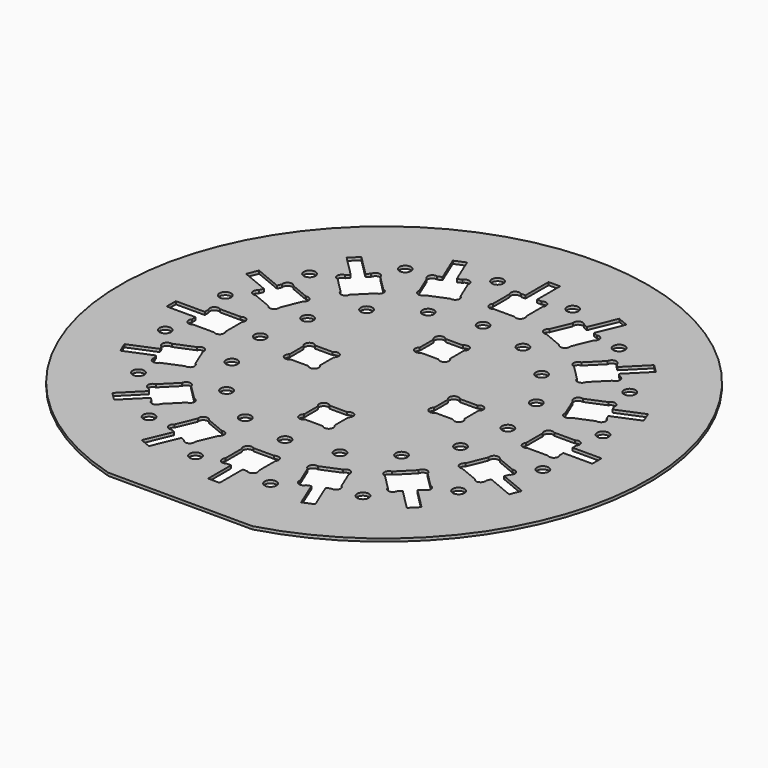
from build123d import *

# Parameters (mm, degrees)
F0_R     = 2
F1_DEPTH = 1


with BuildPart() as f1:
    # F0 (on Top) → F1 (new body)
    with BuildSketch(Plane.XY):
        with BuildLine():
            Line((-25.219298, -87.728294), (24.780546, -87.853236))
            ThreePointArc((24.780546, -87.853236), (0.228098, 91.280965), (-25.219298, -87.728294))
        make_face()
        with Locations((-36.993475, -55.364648)):
            Circle(F0_R, mode=Mode.SUBTRACT)
        with BuildLine():
            ThreePointArc((-42.451708, -34.249269), (-40.875761, -32.852944), (-39.299814, -34.249269))
            Line((-39.299814, -34.249269), (-34.249269, -39.299814))
            ThreePointArc((-34.249269, -39.299814), (-32.852944, -40.875761), (-34.249269, -42.451708))
            Line((-34.249269, -42.451708), (-39.299814, -47.502253))
            ThreePointArc((-39.299814, -47.502253), (-40.875761, -48.898578), (-42.451708, -47.502253))
            Line((-42.451708, -47.502253), (-43.562767, -46.391194))
            Line((-43.562767, -46.391194), (-50.633835, -53.462262))
            Line((-50.633835, -53.462262), (-53.462262, -50.633835))
            Line((-53.462262, -50.633835), (-46.391194, -43.562767))
            Line((-46.391194, -43.562767), (-47.502253, -42.451708))
            ThreePointArc((-47.502253, -42.451708), (-48.898578, -40.875761), (-47.502253, -39.299814))
            Line((-47.502253, -39.299814), (-42.451708, -34.249269))
        make_face(mode=Mode.SUBTRACT)
        with Locations((-12.990381, -65.307056)):
            Circle(F0_R, mode=Mode.SUBTRACT)
        with BuildLine():
            ThreePointArc((-26.113636, -47.887764), (-25.192002, -45.994639), (-23.201666, -46.681587))
            Line((-23.201666, -46.681587), (-16.602811, -49.414922))
            ThreePointArc((-16.602811, -49.414922), (-14.709686, -50.336556), (-15.396634, -52.326892))
            Line((-15.396634, -52.326892), (-18.129969, -58.925747))
            ThreePointArc((-18.129969, -58.925747), (-19.051603, -60.818872), (-21.041939, -60.131925))
            Line((-21.041939, -60.131925), (-22.493607, -59.530624))
            Line((-22.493607, -59.530624), (-26.320442, -68.769419))
            Line((-26.320442, -68.769419), (-30.01596, -67.238685))
            Line((-30.01596, -67.238685), (-26.189125, -57.99989))
            Line((-26.189125, -57.99989), (-27.640794, -57.398589))
            ThreePointArc((-27.640794, -57.398589), (-29.533919, -56.476955), (-28.846971, -54.486619))
            Line((-28.846971, -54.486619), (-26.113636, -47.887764))
        make_face(mode=Mode.SUBTRACT)
        with Locations((-55.364648, -36.993475)):
            Circle(F0_R, mode=Mode.SUBTRACT)
        with BuildLine():
            ThreePointArc((-52.326892, -15.396634), (-50.336556, -14.709686), (-49.414922, -16.602811))
            Line((-49.414922, -16.602811), (-46.681587, -23.201666))
            ThreePointArc((-46.681587, -23.201666), (-45.994639, -25.192002), (-47.887764, -26.113636))
            Line((-47.887764, -26.113636), (-54.486619, -28.846971))
            ThreePointArc((-54.486619, -28.846971), (-56.476955, -29.533919), (-57.398589, -27.640794))
            Line((-57.398589, -27.640794), (-57.99989, -26.189125))
            Line((-57.99989, -26.189125), (-67.238685, -30.01596))
            Line((-67.238685, -30.01596), (-68.769419, -26.320442))
            Line((-68.769419, -26.320442), (-59.530624, -22.493607))
            Line((-59.530624, -22.493607), (-60.131925, -21.041939))
            ThreePointArc((-60.131925, -21.041939), (-60.818872, -19.051603), (-58.925747, -18.129969))
            Line((-58.925747, -18.129969), (-52.326892, -15.396634))
        make_face(mode=Mode.SUBTRACT)
        with Locations((-65.307056, -12.990381)):
            Circle(F0_R, mode=Mode.SUBTRACT)
        with BuildLine():
            ThreePointArc((-54.235781, 5.8), (-52.134067, 5.672988), (-52.007056, 3.571275))
            Line((-52.007056, 3.571275), (-52.007056, -3.571275))
            ThreePointArc((-52.007056, -3.571275), (-52.134067, -5.672988), (-54.235781, -5.8))
            Line((-54.235781, -5.8), (-61.37833, -5.8))
            ThreePointArc((-61.37833, -5.8), (-63.480044, -5.672988), (-63.607056, -3.571275))
            Line((-63.607056, -3.571275), (-63.607056, -2))
            Line((-63.607056, -2), (-73.607056, -2))
            Line((-73.607056, -2), (-73.607056, 2))
            Line((-73.607056, 2), (-63.607056, 2))
            Line((-63.607056, 2), (-63.607056, 3.571275))
            ThreePointArc((-63.607056, 3.571275), (-63.480044, 5.672988), (-61.37833, 5.8))
            Line((-61.37833, 5.8), (-54.235781, 5.8))
        make_face(mode=Mode.SUBTRACT)
        with Locations((-30.269159, -30.269159)):
            Circle(F0_R, mode=Mode.SUBTRACT)
        with Locations((-16.381551, -39.548563)):
            Circle(F0_R, mode=Mode.SUBTRACT)
        with BuildLine():
            ThreePointArc((3.02086, -19.75), (5.391421, -19.608579), (5.25, -21.97914))
            Line((5.25, -21.97914), (5.25, -28.02086))
            ThreePointArc((5.25, -28.02086), (5.391421, -30.391421), (3.02086, -30.25))
            Line((3.02086, -30.25), (2.000019, -30.25))
            Line((2.000019, -30.25), (-2, -30.25))
            Line((-2, -30.25), (-3.02086, -30.25))
            ThreePointArc((-3.02086, -30.25), (-5.391421, -30.391421), (-5.25, -28.02086))
            Line((-5.25, -28.02086), (-5.25, -21.97914))
            ThreePointArc((-5.25, -21.97914), (-5.391421, -19.608579), (-3.02086, -19.75))
            Line((-3.02086, -19.75), (3.02086, -19.75))
        make_face(mode=Mode.SUBTRACT)
        with Locations((-39.548563, -16.381551)):
            Circle(F0_R, mode=Mode.SUBTRACT)
        with Locations((-42.807056, 0)):
            Circle(F0_R, mode=Mode.SUBTRACT)
        with BuildLine():
            ThreePointArc((-19.75, -3.02086), (-19.608579, -5.391421), (-21.97914, -5.25))
            Line((-21.97914, -5.25), (-28.02086, -5.25))
            ThreePointArc((-28.02086, -5.25), (-30.391421, -5.391421), (-30.25, -3.02086))
            Line((-30.25, -3.02086), (-30.25, -2.000019))
            Line((-30.25, -2.000019), (-30.25, 2))
            Line((-30.25, 2), (-30.25, 3.02086))
            ThreePointArc((-30.25, 3.02086), (-30.391421, 5.391421), (-28.02086, 5.25))
            Line((-28.02086, 5.25), (-21.97914, 5.25))
            ThreePointArc((-21.97914, 5.25), (-19.608579, 5.391421), (-19.75, 3.02086))
            Line((-19.75, 3.02086), (-19.75, -3.02086))
        make_face(mode=Mode.SUBTRACT)
        with BuildLine():
            ThreePointArc((-5.8, -54.235781), (-5.672988, -52.134067), (-3.571275, -52.007056))
            Line((-3.571275, -52.007056), (3.571275, -52.007056))
            ThreePointArc((3.571275, -52.007056), (5.672988, -52.134067), (5.8, -54.235781))
            Line((5.8, -54.235781), (5.8, -61.37833))
            ThreePointArc((5.8, -61.37833), (5.672988, -63.480044), (3.571275, -63.607056))
            Line((3.571275, -63.607056), (2, -63.607056))
            Line((2, -63.607056), (2, -73.607056))
            Line((2, -73.607056), (-2, -73.607056))
            Line((-2, -73.607056), (-2, -63.607056))
            Line((-2, -63.607056), (-3.571275, -63.607056))
            ThreePointArc((-3.571275, -63.607056), (-5.672988, -63.480044), (-5.8, -61.37833))
            Line((-5.8, -61.37833), (-5.8, -54.235781))
        make_face(mode=Mode.SUBTRACT)
        with Locations((12.990381, -65.307056)):
            Circle(F0_R, mode=Mode.SUBTRACT)
        with BuildLine():
            ThreePointArc((15.396634, -52.326892), (14.709686, -50.336556), (16.602811, -49.414922))
            Line((16.602811, -49.414922), (23.201666, -46.681587))
            ThreePointArc((23.201666, -46.681587), (25.192002, -45.994639), (26.113636, -47.887764))
            Line((26.113636, -47.887764), (28.846971, -54.486619))
            ThreePointArc((28.846971, -54.486619), (29.533919, -56.476955), (27.640794, -57.398589))
            Line((27.640794, -57.398589), (26.189125, -57.99989))
            Line((26.189125, -57.99989), (30.01596, -67.238685))
            Line((30.01596, -67.238685), (26.320442, -68.769419))
            Line((26.320442, -68.769419), (22.493607, -59.530624))
            Line((22.493607, -59.530624), (21.041939, -60.131925))
            ThreePointArc((21.041939, -60.131925), (19.051603, -60.818872), (18.129969, -58.925747))
            Line((18.129969, -58.925747), (15.396634, -52.326892))
        make_face(mode=Mode.SUBTRACT)
        with Locations((36.993475, -55.364648)):
            Circle(F0_R, mode=Mode.SUBTRACT)
        with BuildLine():
            ThreePointArc((34.249269, -42.451708), (32.852944, -40.875761), (34.249269, -39.299814))
            Line((34.249269, -39.299814), (39.299814, -34.249269))
            ThreePointArc((39.299814, -34.249269), (40.875761, -32.852944), (42.451708, -34.249269))
            Line((42.451708, -34.249269), (47.502253, -39.299814))
            ThreePointArc((47.502253, -39.299814), (48.898578, -40.875761), (47.502253, -42.451708))
            Line((47.502253, -42.451708), (46.391194, -43.562767))
            Line((46.391194, -43.562767), (53.462262, -50.633835))
            Line((53.462262, -50.633835), (50.633835, -53.462262))
            Line((50.633835, -53.462262), (43.562767, -46.391194))
            Line((43.562767, -46.391194), (42.451708, -47.502253))
            ThreePointArc((42.451708, -47.502253), (40.875761, -48.898578), (39.299814, -47.502253))
            Line((39.299814, -47.502253), (34.249269, -42.451708))
        make_face(mode=Mode.SUBTRACT)
        with Locations((0, -42.807056)):
            Circle(F0_R, mode=Mode.SUBTRACT)
        with Locations((16.381551, -39.548563)):
            Circle(F0_R, mode=Mode.SUBTRACT)
        with Locations((30.269159, -30.269159)):
            Circle(F0_R, mode=Mode.SUBTRACT)
        with Locations((39.548563, -16.381551)):
            Circle(F0_R, mode=Mode.SUBTRACT)
        with BuildLine():
            ThreePointArc((19.75, 3.02086), (19.608579, 5.391421), (21.97914, 5.25))
            Line((21.97914, 5.25), (28.02086, 5.25))
            ThreePointArc((28.02086, 5.25), (30.391421, 5.391421), (30.25, 3.02086))
            Line((30.25, 3.02086), (30.25, 2.000019))
            Line((30.25, 2.000019), (30.25, -2))
            Line((30.25, -2), (30.25, -3.02086))
            ThreePointArc((30.25, -3.02086), (30.391421, -5.391421), (28.02086, -5.25))
            Line((28.02086, -5.25), (21.97914, -5.25))
            ThreePointArc((21.97914, -5.25), (19.608579, -5.391421), (19.75, -3.02086))
            Line((19.75, -3.02086), (19.75, 3.02086))
        make_face(mode=Mode.SUBTRACT)
        with Locations((42.807056, 0)):
            Circle(F0_R, mode=Mode.SUBTRACT)
        with Locations((55.364648, -36.993475)):
            Circle(F0_R, mode=Mode.SUBTRACT)
        with BuildLine():
            ThreePointArc((47.887764, -26.113636), (45.994639, -25.192002), (46.681587, -23.201666))
            Line((46.681587, -23.201666), (49.414922, -16.602811))
            ThreePointArc((49.414922, -16.602811), (50.336556, -14.709686), (52.326892, -15.396634))
            Line((52.326892, -15.396634), (58.925747, -18.129969))
            ThreePointArc((58.925747, -18.129969), (60.818872, -19.051603), (60.131925, -21.041939))
            Line((60.131925, -21.041939), (59.530624, -22.493607))
            Line((59.530624, -22.493607), (68.769419, -26.320442))
            Line((68.769419, -26.320442), (67.238685, -30.01596))
            Line((67.238685, -30.01596), (57.99989, -26.189125))
            Line((57.99989, -26.189125), (57.398589, -27.640794))
            ThreePointArc((57.398589, -27.640794), (56.476955, -29.533919), (54.486619, -28.846971))
            Line((54.486619, -28.846971), (47.887764, -26.113636))
        make_face(mode=Mode.SUBTRACT)
        with Locations((65.307056, -12.990381)):
            Circle(F0_R, mode=Mode.SUBTRACT)
        with BuildLine():
            ThreePointArc((54.235781, -5.8), (52.134067, -5.672988), (52.007056, -3.571275))
            Line((52.007056, -3.571275), (52.007056, 3.571275))
            ThreePointArc((52.007056, 3.571275), (52.134067, 5.672988), (54.235781, 5.8))
            Line((54.235781, 5.8), (61.37833, 5.8))
            ThreePointArc((61.37833, 5.8), (63.480044, 5.672988), (63.607056, 3.571275))
            Line((63.607056, 3.571275), (63.607056, 2))
            Line((63.607056, 2), (73.607056, 2))
            Line((73.607056, 2), (73.607056, -2))
            Line((73.607056, -2), (63.607056, -2))
            Line((63.607056, -2), (63.607056, -3.571275))
            ThreePointArc((63.607056, -3.571275), (63.480044, -5.672988), (61.37833, -5.8))
            Line((61.37833, -5.8), (54.235781, -5.8))
        make_face(mode=Mode.SUBTRACT)
        with Locations((-65.307056, 12.990381)):
            Circle(F0_R, mode=Mode.SUBTRACT)
        with BuildLine():
            ThreePointArc((-47.887764, 26.113636), (-45.994639, 25.192002), (-46.681587, 23.201666))
            Line((-46.681587, 23.201666), (-49.414922, 16.602811))
            ThreePointArc((-49.414922, 16.602811), (-50.336556, 14.709686), (-52.326892, 15.396634))
            Line((-52.326892, 15.396634), (-58.925747, 18.129969))
            ThreePointArc((-58.925747, 18.129969), (-60.818872, 19.051603), (-60.131925, 21.041939))
            Line((-60.131925, 21.041939), (-59.530624, 22.493607))
            Line((-59.530624, 22.493607), (-68.769419, 26.320442))
            Line((-68.769419, 26.320442), (-67.238685, 30.01596))
            Line((-67.238685, 30.01596), (-57.99989, 26.189125))
            Line((-57.99989, 26.189125), (-57.398589, 27.640794))
            ThreePointArc((-57.398589, 27.640794), (-56.476955, 29.533919), (-54.486619, 28.846971))
            Line((-54.486619, 28.846971), (-47.887764, 26.113636))
        make_face(mode=Mode.SUBTRACT)
        with Locations((-55.364648, 36.993475)):
            Circle(F0_R, mode=Mode.SUBTRACT)
        with Locations((-39.548563, 16.381551)):
            Circle(F0_R, mode=Mode.SUBTRACT)
        with Locations((-30.269159, 30.269159)):
            Circle(F0_R, mode=Mode.SUBTRACT)
        with BuildLine():
            ThreePointArc((-39.299814, 34.249269), (-40.875761, 32.852944), (-42.451708, 34.249269))
            Line((-42.451708, 34.249269), (-47.502253, 39.299814))
            ThreePointArc((-47.502253, 39.299814), (-48.898578, 40.875761), (-47.502253, 42.451708))
            Line((-47.502253, 42.451708), (-46.391194, 43.562767))
            Line((-46.391194, 43.562767), (-53.462262, 50.633835))
            Line((-53.462262, 50.633835), (-50.633835, 53.462262))
            Line((-50.633835, 53.462262), (-43.562767, 46.391194))
            Line((-43.562767, 46.391194), (-42.451708, 47.502253))
            ThreePointArc((-42.451708, 47.502253), (-40.875761, 48.898578), (-39.299814, 47.502253))
            Line((-39.299814, 47.502253), (-34.249269, 42.451708))
            ThreePointArc((-34.249269, 42.451708), (-32.852944, 40.875761), (-34.249269, 39.299814))
            Line((-34.249269, 39.299814), (-39.299814, 34.249269))
        make_face(mode=Mode.SUBTRACT)
        with BuildLine():
            ThreePointArc((3.02086, 30.25), (5.391421, 30.391421), (5.25, 28.02086))
            Line((5.25, 28.02086), (5.25, 21.97914))
            ThreePointArc((5.25, 21.97914), (5.391421, 19.608579), (3.02086, 19.75))
            Line((3.02086, 19.75), (-3.02086, 19.75))
            ThreePointArc((-3.02086, 19.75), (-5.391421, 19.608579), (-5.25, 21.97914))
            Line((-5.25, 21.97914), (-5.25, 28.02086))
            ThreePointArc((-5.25, 28.02086), (-5.391421, 30.391421), (-3.02086, 30.25))
            Line((-3.02086, 30.25), (-2.000019, 30.25))
            Line((-2.000019, 30.25), (2, 30.25))
            Line((2, 30.25), (3.02086, 30.25))
        make_face(mode=Mode.SUBTRACT)
        with Locations((-16.381551, 39.548563)):
            Circle(F0_R, mode=Mode.SUBTRACT)
        with Locations((-36.993475, 55.364648)):
            Circle(F0_R, mode=Mode.SUBTRACT)
        with BuildLine():
            ThreePointArc((-23.201666, 46.681587), (-25.192002, 45.994639), (-26.113636, 47.887764))
            Line((-26.113636, 47.887764), (-28.846971, 54.486619))
            ThreePointArc((-28.846971, 54.486619), (-29.533919, 56.476955), (-27.640794, 57.398589))
            Line((-27.640794, 57.398589), (-26.189125, 57.99989))
            Line((-26.189125, 57.99989), (-30.01596, 67.238685))
            Line((-30.01596, 67.238685), (-26.320442, 68.769419))
            Line((-26.320442, 68.769419), (-22.493607, 59.530624))
            Line((-22.493607, 59.530624), (-21.041939, 60.131925))
            ThreePointArc((-21.041939, 60.131925), (-19.051603, 60.818872), (-18.129969, 58.925747))
            Line((-18.129969, 58.925747), (-15.396634, 52.326892))
            ThreePointArc((-15.396634, 52.326892), (-14.709686, 50.336556), (-16.602811, 49.414922))
            Line((-16.602811, 49.414922), (-23.201666, 46.681587))
        make_face(mode=Mode.SUBTRACT)
        with Locations((-12.990381, 65.307056)):
            Circle(F0_R, mode=Mode.SUBTRACT)
        with Locations((39.548563, 16.381551)):
            Circle(F0_R, mode=Mode.SUBTRACT)
        with Locations((0, 42.807056)):
            Circle(F0_R, mode=Mode.SUBTRACT)
        with Locations((16.381551, 39.548563)):
            Circle(F0_R, mode=Mode.SUBTRACT)
        with Locations((30.269159, 30.269159)):
            Circle(F0_R, mode=Mode.SUBTRACT)
        with BuildLine():
            ThreePointArc((42.451708, 34.249269), (40.875761, 32.852944), (39.299814, 34.249269))
            Line((39.299814, 34.249269), (34.249269, 39.299814))
            ThreePointArc((34.249269, 39.299814), (32.852944, 40.875761), (34.249269, 42.451708))
            Line((34.249269, 42.451708), (39.299814, 47.502253))
            ThreePointArc((39.299814, 47.502253), (40.875761, 48.898578), (42.451708, 47.502253))
            Line((42.451708, 47.502253), (43.562767, 46.391194))
            Line((43.562767, 46.391194), (50.633835, 53.462262))
            Line((50.633835, 53.462262), (53.462262, 50.633835))
            Line((53.462262, 50.633835), (46.391194, 43.562767))
            Line((46.391194, 43.562767), (47.502253, 42.451708))
            ThreePointArc((47.502253, 42.451708), (48.898578, 40.875761), (47.502253, 39.299814))
            Line((47.502253, 39.299814), (42.451708, 34.249269))
        make_face(mode=Mode.SUBTRACT)
        with Locations((65.307056, 12.990381)):
            Circle(F0_R, mode=Mode.SUBTRACT)
        with BuildLine():
            ThreePointArc((52.326892, 15.396634), (50.336556, 14.709686), (49.414922, 16.602811))
            Line((49.414922, 16.602811), (46.681587, 23.201666))
            ThreePointArc((46.681587, 23.201666), (45.994639, 25.192002), (47.887764, 26.113636))
            Line((47.887764, 26.113636), (54.486619, 28.846971))
            ThreePointArc((54.486619, 28.846971), (56.476955, 29.533919), (57.398589, 27.640794))
            Line((57.398589, 27.640794), (57.99989, 26.189125))
            Line((57.99989, 26.189125), (67.238685, 30.01596))
            Line((67.238685, 30.01596), (68.769419, 26.320442))
            Line((68.769419, 26.320442), (59.530624, 22.493607))
            Line((59.530624, 22.493607), (60.131925, 21.041939))
            ThreePointArc((60.131925, 21.041939), (60.818872, 19.051603), (58.925747, 18.129969))
            Line((58.925747, 18.129969), (52.326892, 15.396634))
        make_face(mode=Mode.SUBTRACT)
        with Locations((55.364648, 36.993475)):
            Circle(F0_R, mode=Mode.SUBTRACT)
        with BuildLine():
            ThreePointArc((26.113636, 47.887764), (25.192002, 45.994639), (23.201666, 46.681587))
            Line((23.201666, 46.681587), (16.602811, 49.414922))
            ThreePointArc((16.602811, 49.414922), (14.709686, 50.336556), (15.396634, 52.326892))
            Line((15.396634, 52.326892), (18.129969, 58.925747))
            ThreePointArc((18.129969, 58.925747), (19.051603, 60.818872), (21.041939, 60.131925))
            Line((21.041939, 60.131925), (22.493607, 59.530624))
            Line((22.493607, 59.530624), (26.320442, 68.769419))
            Line((26.320442, 68.769419), (30.01596, 67.238685))
            Line((30.01596, 67.238685), (26.189125, 57.99989))
            Line((26.189125, 57.99989), (27.640794, 57.398589))
            ThreePointArc((27.640794, 57.398589), (29.533919, 56.476955), (28.846971, 54.486619))
            Line((28.846971, 54.486619), (26.113636, 47.887764))
        make_face(mode=Mode.SUBTRACT)
        with BuildLine():
            ThreePointArc((3.571275, 63.607056), (5.672988, 63.480044), (5.8, 61.37833))
            Line((5.8, 61.37833), (5.8, 54.235781))
            ThreePointArc((5.8, 54.235781), (5.672988, 52.134067), (3.571275, 52.007056))
            Line((3.571275, 52.007056), (-3.571275, 52.007056))
            ThreePointArc((-3.571275, 52.007056), (-5.672988, 52.134067), (-5.8, 54.235781))
            Line((-5.8, 54.235781), (-5.8, 61.37833))
            ThreePointArc((-5.8, 61.37833), (-5.672988, 63.480044), (-3.571275, 63.607056))
            Line((-3.571275, 63.607056), (-2, 63.607056))
            Line((-2, 63.607056), (-2, 73.607056))
            Line((-2, 73.607056), (2, 73.607056))
            Line((2, 73.607056), (2, 63.607056))
            Line((2, 63.607056), (3.571275, 63.607056))
        make_face(mode=Mode.SUBTRACT)
        with Locations((12.990381, 65.307056)):
            Circle(F0_R, mode=Mode.SUBTRACT)
        with Locations((36.993475, 55.364648)):
            Circle(F0_R, mode=Mode.SUBTRACT)
    extrude(amount=F1_DEPTH)


solid = f1.part
